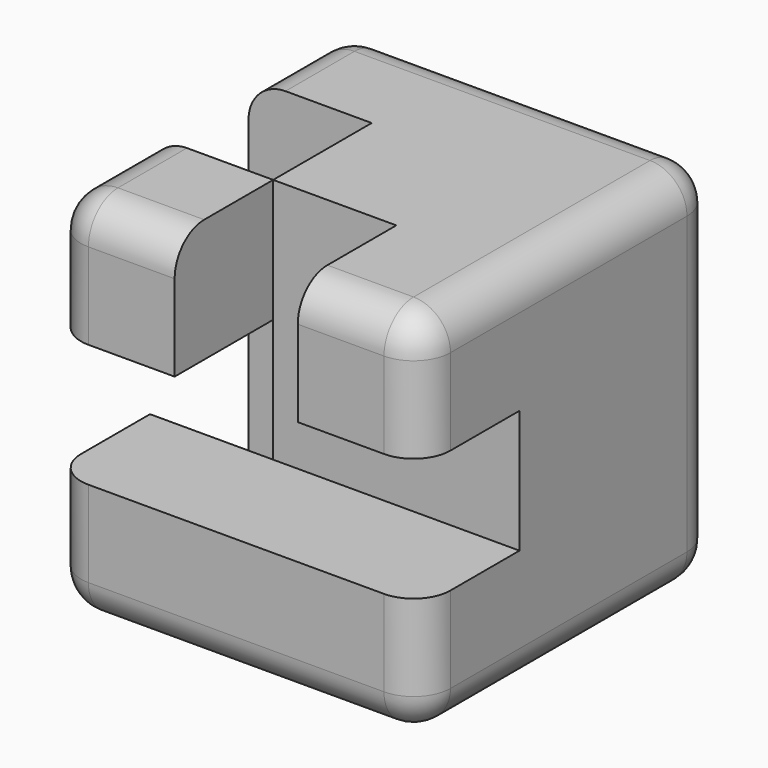
from build123d import *

# Parameters (mm, degrees)
F1_W     = 20
F1_H     = 20
F2_DEPTH = 20
F3_W     = 6.6666666667
F3_H     = 20
F4_DEPTH = 6.6666666667
F5_W     = 6.6666666667
F5_H     = 6.6666666667
F6_DEPTH = 13.3333333333
F7_W     = 6.6666666667
F7_H     = 6.6666666667
F8_DEPTH = 6.6666666667
F9_R     = 2


with BuildPart() as f2:
    # F1 (on Top) → F2 (new body)
    with BuildSketch(Plane.XY):
        with Locations((-0.2217073925, 0.4356197339)):
            Rectangle(F1_W, F1_H)
    extrude(amount=F2_DEPTH)

    # F3 (on face) → F4 (cut)
    with BuildSketch(Plane(origin=(-10.2217073925, 0, 0), x_dir=(0, -1, 0), z_dir=(-1, 0, 0))):
        with Locations((-0.4356197339, 10)):
            Rectangle(F3_W, F3_H)
    extrude(amount=-F4_DEPTH, mode=Mode.SUBTRACT)

    # F5 (on face) → F6 (cut)
    with BuildSketch(Plane(origin=(-10.2217073925, 0, 0), x_dir=(0, -1, 0), z_dir=(-1, 0, 0))):
        with Locations((6.2310469328, 10)):
            Rectangle(F5_W, F5_H)
    extrude(amount=-F6_DEPTH, mode=Mode.SUBTRACT)

    # F7 (on face) → F8 (cut)
    with BuildSketch(Plane.XZ.offset(9.5643802661)):
        with Locations((6.4449592742, 10)):
            Rectangle(F7_W, F7_H)
        with Locations((-0.2217073925, 16.6666666667)):
            Rectangle(F7_W, F7_H)
    extrude(amount=-F8_DEPTH, mode=Mode.SUBTRACT)

    # F9
    f9_edges = [f2.edges().sort_by_distance(p)[0] for p in [
        (-10.221707, 7.102286, 20),
        (-10.221707, 10.43562, 10),
        (-10.221707, 7.102286, 0),
        (-10.221707, -6.231047, 0),
        (-0.221707, -9.56438, 0),
        (-10.221707, -9.56438, 16.666667),
        (-10.221707, -6.231047, 20),
        (-6.888374, -9.56438, 20),
        (9.778293, -9.56438, 3.333333),
        (9.778293, -9.56438, 16.666667),
        (6.444959, -9.56438, 20),
        (9.778293, 0.43562, 20),
        (9.778293, 0.43562, 0),
        (9.778293, 10.43562, 10),
        (-0.221707, 10.43562, 0),
        (-0.221707, 10.43562, 20),
        (-10.221707, -9.56438, 3.333333),
    ]]
    fillet(f9_edges, radius=F9_R)


solid = f2.part
